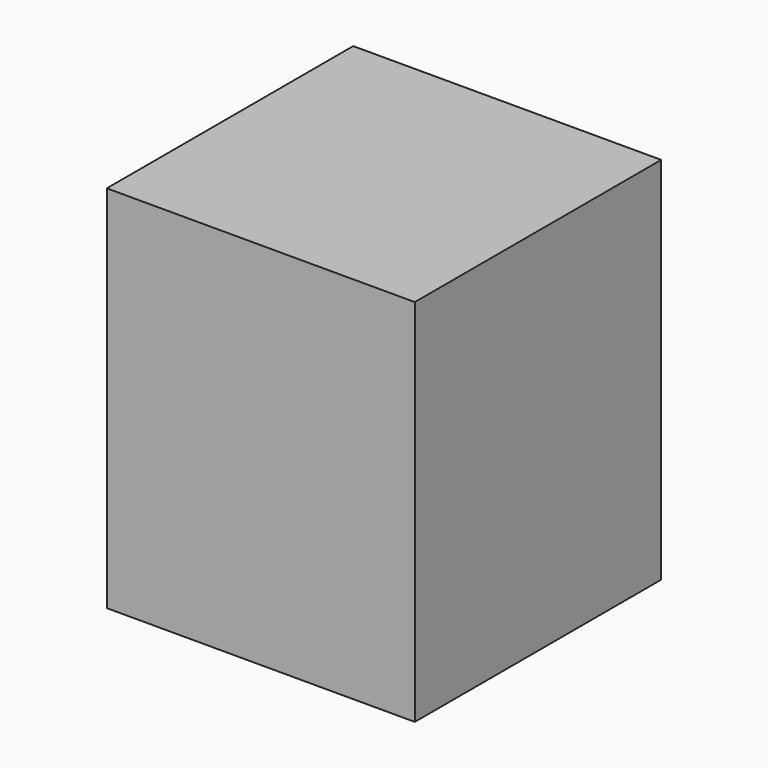
from build123d import *

# Parameters (mm, degrees)
BOX_W     = 0.5
BOX_H     = 0.5
BOX_DEPTH = 0.6


with BuildPart() as part:
    # Box → Box (new body)
    with BuildSketch(Plane(origin=(-0.25, -0.25, 0), x_dir=(1, 0, 0), z_dir=(0, 0, 1))):
        with Locations((0.25, 0.25)):
            Rectangle(BOX_W, BOX_H)
    extrude(amount=BOX_DEPTH)


solid = part.part
